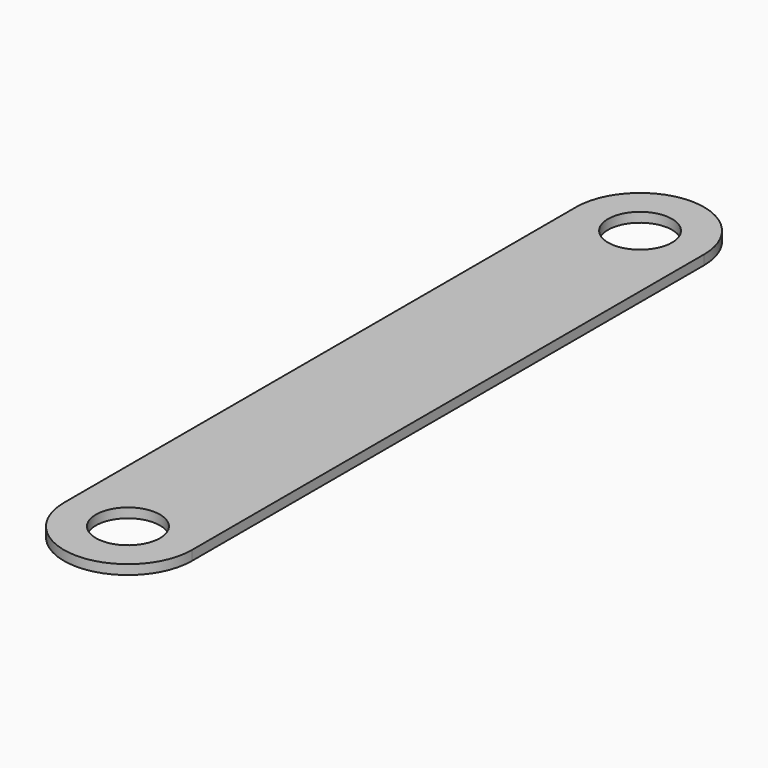
from build123d import *

# Parameters (mm, degrees)
SKETCH_R  = 5
PAD_DEPTH = 1.5


with BuildPart() as part:
    # Sketch → Pad (new body)
    with BuildSketch(Plane.XY):
        with BuildLine():
            ThreePointArc((-10, 0), (0, -10), (10, 0))
            Line((10, 0), (10, 100))
            ThreePointArc((10, 100), (0, 110), (-10, 100))
            Line((-10, 0), (-10, 100))
        make_face()
        Circle(SKETCH_R, mode=Mode.SUBTRACT)
        with Locations((0, 100)):
            Circle(SKETCH_R, mode=Mode.SUBTRACT)
    extrude(amount=PAD_DEPTH)


solid = part.part
